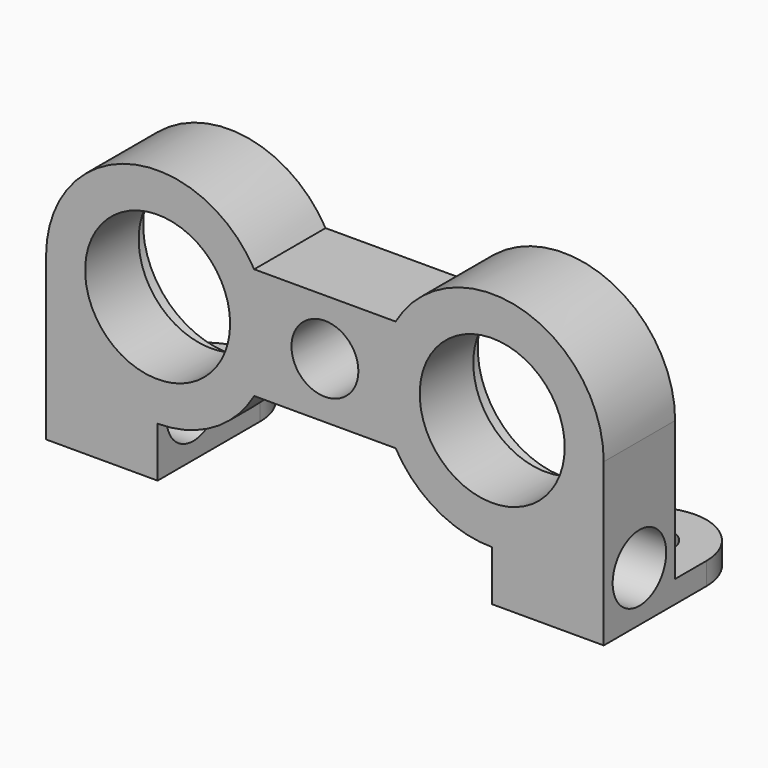
from build123d import *

# Parameters (mm, degrees)
SKETCH002_R     = 6.5
SKETCH002_R_2   = 3
PAD_DEPTH       = 8
SKETCH003_R     = 7.7
POCKET_DEPTH    = 2
SKETCH004_R     = 3
POCKET001_DEPTH = 31
SKETCH005_R     = 2
PAD001_DEPTH    = 2


with BuildPart() as part:
    # Sketch002 → Pad (new body)
    with BuildSketch(Plane.XZ):
        with BuildLine():
            Line((-6.339746, 5), (6.339746, 5))
            ThreePointArc((25, 0), (17.58819, 9.659258), (6.339746, 5))
            Line((25, -14.5), (25, 0))
            Line((15, -14.5), (25, -14.5))
            Line((15, -10), (15, -14.5))
            ThreePointArc((6.339746, -5), (10, -8.660254), (15, -10))
            Line((-6.339746, -5), (6.339746, -5))
            ThreePointArc((-15, -10), (-10, -8.660254), (-6.339746, -5))
            Line((-15, -10), (-15, -14.5))
            Line((-25, -14.5), (-15, -14.5))
            Line((-25, 0), (-25, -14.5))
            ThreePointArc((-6.339746, 5), (-17.58819, 9.659258), (-25, 0))
        make_face()
        with Locations((-15, 0)):
            Circle(SKETCH002_R, mode=Mode.SUBTRACT)
        with Locations((15, 0)):
            Circle(SKETCH002_R, mode=Mode.SUBTRACT)
        Circle(SKETCH002_R_2, mode=Mode.SUBTRACT)
    extrude(amount=PAD_DEPTH)

    # Sketch003 (on Face16 of Pad) → Pocket (cut)
    with BuildSketch(Plane(origin=(0, 0, 0), x_dir=(1, 0, 0), z_dir=(0, 1, 0))):
        with Locations((-15, 0)):
            Circle(SKETCH003_R)
        with Locations((15, 0)):
            Circle(SKETCH003_R)
    extrude(amount=-POCKET_DEPTH, mode=Mode.SUBTRACT)

    # Sketch004 → Pocket001 (cut, symmetric)
    with BuildSketch(Plane.YZ):
        with Locations((-4, -10)):
            Circle(SKETCH004_R)
    extrude(amount=POCKET001_DEPTH, both=True, mode=Mode.SUBTRACT)

    # Sketch005 → Pad001 (join)
    with BuildSketch(Plane.XY.offset(-14.5)):
        with BuildLine():
            Line((-25, 0), (-15, 0))
            Line((-15, 0), (-15, 3.5))
            ThreePointArc((-15, 3.5), (-20, 8.5), (-25, 3.5))
            Line((-25, 0), (-25, 3.5))
        make_face()
        with Locations((-20, 3.5)):
            Circle(SKETCH005_R, mode=Mode.SUBTRACT)
        with BuildLine():
            Line((15, 0), (25, 0))
            Line((25, 0), (25, 3.5))
            ThreePointArc((25, 3.5), (20, 8.5), (15, 3.5))
            Line((15, 0), (15, 3.5))
        make_face()
        with Locations((20, 3.5)):
            Circle(SKETCH005_R, mode=Mode.SUBTRACT)
    extrude(amount=PAD001_DEPTH)


solid = part.part
